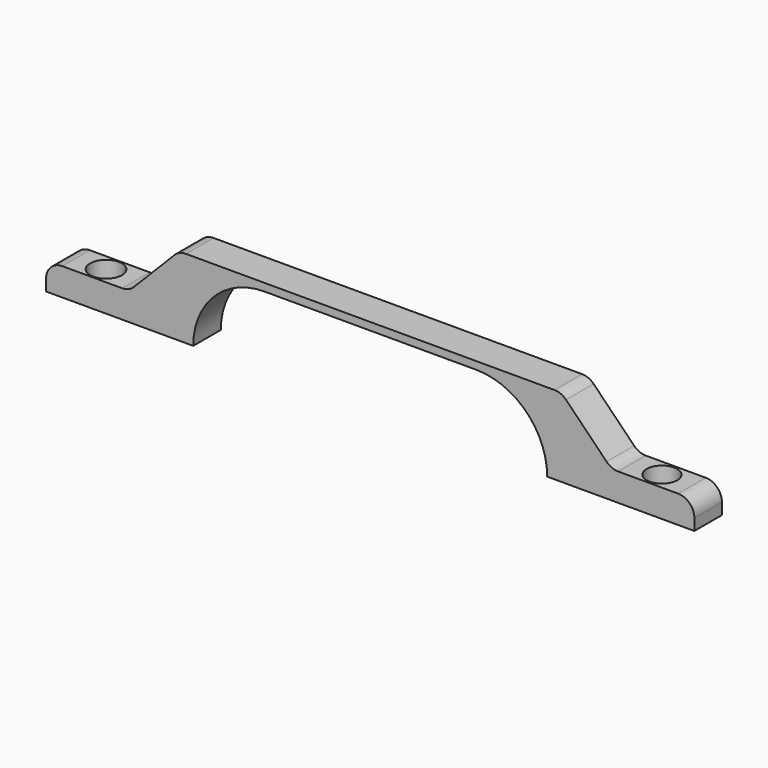
from build123d import *

# Parameters (mm, degrees)
F1_DEPTH = 2.7
F2_R     = 1.27
F3_R     = 1.25
F5_DEPTH = 2.165684
F4_R     = 1.2
F6_DEPTH = 2.165684


with BuildPart() as f1:
    # F0 (on Front) → F1 (new body)
    with BuildSketch(Plane.XZ):
        with BuildLine():
            Line((0, 2.164684), (0, 0))
            Line((0, 0), (11.5316, 0))
            ThreePointArc((11.5316, 0), (13.160848, 3.933352), (17.0942, 5.5626))
            Line((17.0942, 5.5626), (33.7058, 5.5626))
            ThreePointArc((33.7058, 5.5626), (37.639152, 3.933352), (39.2684, 0))
            Line((39.2684, 0), (50.8, 0))
            Line((50.8, 0), (50.8, 2.164684))
            Line((50.8, 2.164684), (44.297848, 2.164684))
            Line((44.297848, 2.164684), (40.37185, 6.1626))
            Line((40.37185, 6.1626), (10.42815, 6.1626))
            Line((10.42815, 6.1626), (6.502152, 2.164684))
            Line((6.502152, 2.164684), (0, 2.164684))
        make_face()
    extrude(amount=F1_DEPTH)

    # F2
    f2_edges = [f1.edges().sort_by_distance(p)[0] for p in [
        (50.8, -1.35, 2.164684),
        (44.297848, -1.35, 2.164684),
        (40.37185, -1.35, 6.1626),
        (10.42815, -1.35, 6.1626),
        (6.502152, -1.35, 2.164684),
        (0, -1.35, 2.164684),
    ]]
    fillet(f2_edges, radius=F2_R)

    # F3 (on face) → F5 (cut, through all)
    with BuildSketch(Plane.XY.offset(2.164684)):
        with Locations((3.619668, -1.35)):
            Circle(F3_R)
    extrude(amount=-F5_DEPTH, mode=Mode.SUBTRACT)

    # F4 (on face) → F6 (cut, through all)
    with BuildSketch(Plane.XY.offset(2.164684)):
        with Locations((47.180332, -1.35)):
            Circle(F4_R)
    extrude(amount=-F6_DEPTH, mode=Mode.SUBTRACT)


solid = f1.part
